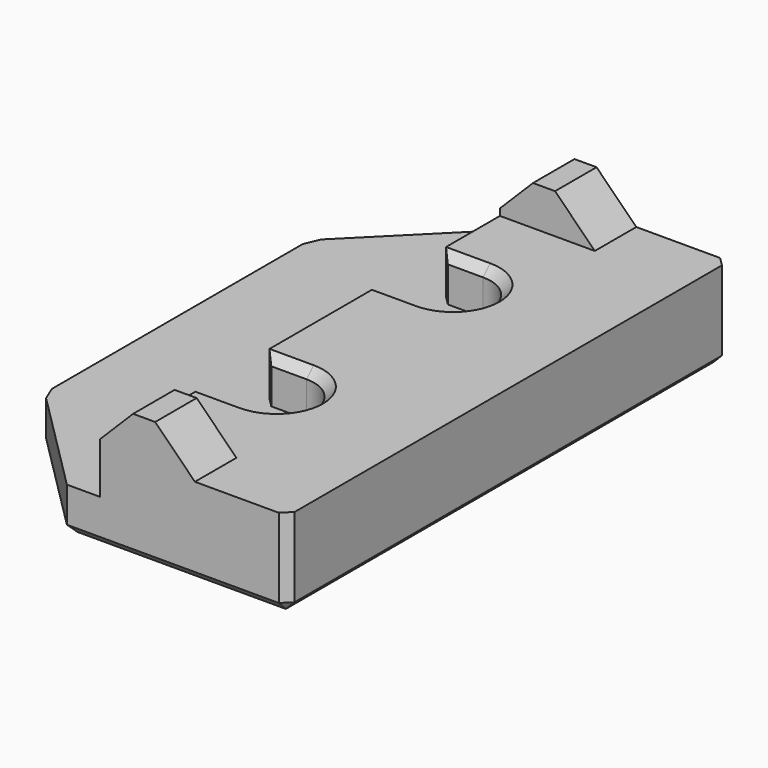
from build123d import *

# Parameters (mm, degrees)
CYLINDER019_R      = 1.7
CYLINDER019_DEPTH  = 10
BOX002006_W        = 2
BOX002006_H        = 3.4
BOX002006_DEPTH    = 8
CYLINDER018_R      = 1.7
CYLINDER018_DEPTH  = 10
BOX002005_W        = 2
BOX002005_H        = 3.4
BOX002005_DEPTH    = 8
BOX002022_W        = 4.5
BOX002022_H        = 20.3
BOX002022_DEPTH    = 2.3
BOX002023_W        = 4.5
BOX002023_H        = 25
BOX002023_DEPTH    = 2.3
CHAMFER012005_SIZE = 2
CHAMFER012006_SIZE = 1.5
BOX002004_W        = 15
BOX002004_H        = 25
BOX002004_DEPTH    = 4
BOX002003_W        = 15
BOX002003_H        = 25
BOX002003_DEPTH    = 4
CHAMFER012007_SIZE = 5
CHAMFER012008_SIZE = 0.4


with BuildPart() as cylinder019:
    # Cylinder019 → Cylinder019 (new body)
    with BuildSketch(Plane(origin=(7.5, 7.5, 0), x_dir=(1, 0, 0), z_dir=(0, 0, 1))):
        Circle(CYLINDER019_R)
    extrude(amount=CYLINDER019_DEPTH)


with BuildPart() as cube008:
    # Box002006 → Box002006 (new body)
    with BuildSketch(Plane(origin=(5.5, 15.8, 2), x_dir=(1, 0, 0), z_dir=(0, 0, 1))):
        with Locations((1, 1.7)):
            Rectangle(BOX002006_W, BOX002006_H)
    extrude(amount=BOX002006_DEPTH)


with BuildPart() as cylinder018:
    # Cylinder018 → Cylinder018 (new body)
    with BuildSketch(Plane(origin=(7.5, 17.5, 0), x_dir=(1, 0, 0), z_dir=(0, 0, 1))):
        Circle(CYLINDER018_R)
    extrude(amount=CYLINDER018_DEPTH)


with BuildPart() as fusion014:
    # Box002005 → Box002005 (new body)
    with BuildSketch(Plane(origin=(5.5, 5.8, 2), x_dir=(1, 0, 0), z_dir=(0, 0, 1))):
        with Locations((1, 1.7)):
            Rectangle(BOX002005_W, BOX002005_H)
    extrude(amount=BOX002005_DEPTH)

    # Fusion014: union Cylinder019, Cube008, Cylinder018
    add(cylinder019.part)
    add(cube008.part)
    add(cylinder018.part)


with BuildPart() as fusion014_1:
    # Fusion014 placement: moved
    add(fusion014.part.moved(Location((-7.5, 0, 0))))


with BuildPart() as cube024:
    # Box002022 → Box002022 (new body)
    with BuildSketch(Plane(origin=(-2, 2.35, 3.5), x_dir=(1, 0, 0), z_dir=(0, 0, 1))):
        with Locations((2.25, 10.15)):
            Rectangle(BOX002022_W, BOX002022_H)
    extrude(amount=BOX002022_DEPTH)


with BuildPart() as cut001038015006:
    # Box002023 → Box002023 (new body)
    with BuildSketch(Plane(origin=(-2, 0, 3.5), x_dir=(1, 0, 0), z_dir=(0, 0, 1))):
        with Locations((2.25, 12.5)):
            Rectangle(BOX002023_W, BOX002023_H)
    extrude(amount=BOX002023_DEPTH)

    # Chamfer012005
    chamfer012005_edges = [cut001038015006.edges().sort_by_distance(p)[0] for p in [
        (2.5, 12.5, 5.8),
    ]]
    chamfer(chamfer012005_edges, length=CHAMFER012005_SIZE)

    # Chamfer012006
    chamfer012006_edges = [cut001038015006.edges().sort_by_distance(p)[0] for p in [
        (-2, 12.5, 5.8),
    ]]
    chamfer(chamfer012006_edges, length=CHAMFER012006_SIZE)

    # Cut001038015006: cut Cube024
    add(cube024.part, mode=Mode.SUBTRACT)


with BuildPart() as cube006:
    # Box002004 → Box002004 (new body)
    with BuildSketch(Plane(origin=(-8.5, 0, 2), x_dir=(1, 0, 0), z_dir=(0, 0, 1))):
        with Locations((7.5, 12.5)):
            Rectangle(BOX002004_W, BOX002004_H)
    extrude(amount=BOX002004_DEPTH)


with BuildPart() as panel_clip:
    # Box002003 → Box002003 (new body)
    with BuildSketch(Plane.XY):
        with Locations((7.5, 12.5)):
            Rectangle(BOX002003_W, BOX002003_H)
    extrude(amount=BOX002003_DEPTH)

    # Cut001014: cut Cube006
    add(cube006.part, mode=Mode.SUBTRACT)


with BuildPart() as panel_clip_1:
    # Cut001014 placement: moved
    add(panel_clip.part.moved(Location((-8.5, 0, 0))))

    # Fusion025019004: union Cut001038015006
    add(cut001038015006.part)

    # Cut001038015007: cut Fusion014
    add(fusion014_1.part, mode=Mode.SUBTRACT)

    # Chamfer012007
    chamfer012007_edges = [panel_clip_1.edges().sort_by_distance(p)[0] for p in [
        (-8.5, 0, 1),
        (-8.5, 25, 1),
    ]]
    chamfer(chamfer012007_edges, length=CHAMFER012007_SIZE)

    # Chamfer012008
    chamfer012008_edges = [panel_clip_1.edges().sort_by_distance(p)[0] for p in [
        (-8.5, 20, 1),
        (-8.5, 5, 1),
        (-8.5, 12.5, 0),
        (-6, 22.5, 0),
        (-6, 2.5, 0),
        (1.5, 0, 0),
        (1.5, 25, 0),
        (6.5, 12.5, 0),
        (-1.7, 7.5, 0),
        (-1.7, 17.5, 0),
        (6.5, 25, 2),
        (-2, 19.2, 3),
        (-2, 9.2, 3),
        (-2, 15.8, 3),
        (6.5, 0, 2),
        (-2, 5.8, 3),
        (1.202082, 8.702082, 4),
        (1.202082, 6.297918, 4),
        (1.202082, 18.702082, 4),
        (1.202082, 16.297918, 4),
        (-1, 5.8, 4),
        (-1, 9.2, 4),
        (-1, 15.8, 4),
        (-1, 19.2, 4),
    ]]
    chamfer(chamfer012008_edges, length=CHAMFER012008_SIZE)


solid = panel_clip_1.part
